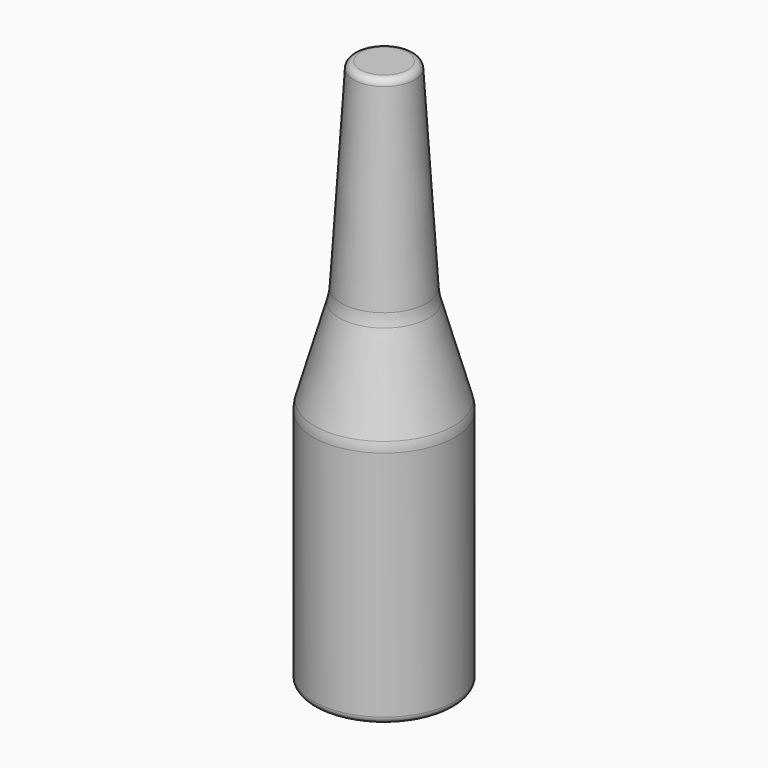
from build123d import *


with BuildPart() as f1:
    # F0 (on Front) → F1 (revolve)
    with BuildSketch(Plane.XZ):
        with BuildLine():
            ThreePointArc((25.5194709269, -146.3529362098), (28.7366108484, -146.8328795765), (30.5, -144.0996043233))
            Line((30.5, -144.0996043233), (30.5, -44.1008241696))
            ThreePointArc((30.5, -44.1008241696), (30.3550141067, -42.0203059913), (29.9228592146, -39.9800072511))
            Line((29.9228592146, -39.9800072511), (19.2454525939, -2.6090840788))
            ThreePointArc((19.2454525939, -2.6090840788), (18.644708075, 0.0248674453), (18.3316898412, 2.708263464))
            Line((18.3316898412, 2.708263464), (13.1748762799, 85.6860816786))
            ThreePointArc((13.1748762799, 85.6860816786), (12.2351303297, 87.6861204262), (10.1806529066, 88.5))
            Line((10.1806529066, 88.5), (0, 88.5))
            Line((0, 88.5), (0, 85.5))
            Line((0, 85.5), (10.2957910712, 85.5))
            Line((10.2957910712, 85.5), (15.6093503933, 0))
            Line((15.6093503933, 0), (27.5, -41.6172736236))
            Line((27.5, -41.6172736236), (27.5, -136.0996043233))
            Line((27.5, -136.0996043233), (0, -136.0996043233))
            Line((0, -136.0996043233), (0, -139.0996043233))
            add(Edge.make_bspline(
                [(0, -139.0996043233), (5.5463740744, -139.0996043233), (14.5800994613, -139.8967348371), (22.8950264361, -144.0462238049), (25.5194709269, -146.3529362098)],
                knots=[0, 0, 0, 0, 0.490625928, 0.7810631733, 0.7810631733, 0.7810631733, 0.7810631733], degree=3))
        make_face()
    revolve(axis=Axis((0, 0, -29.615540045), (0, 0, -1)))


solid = f1.part
